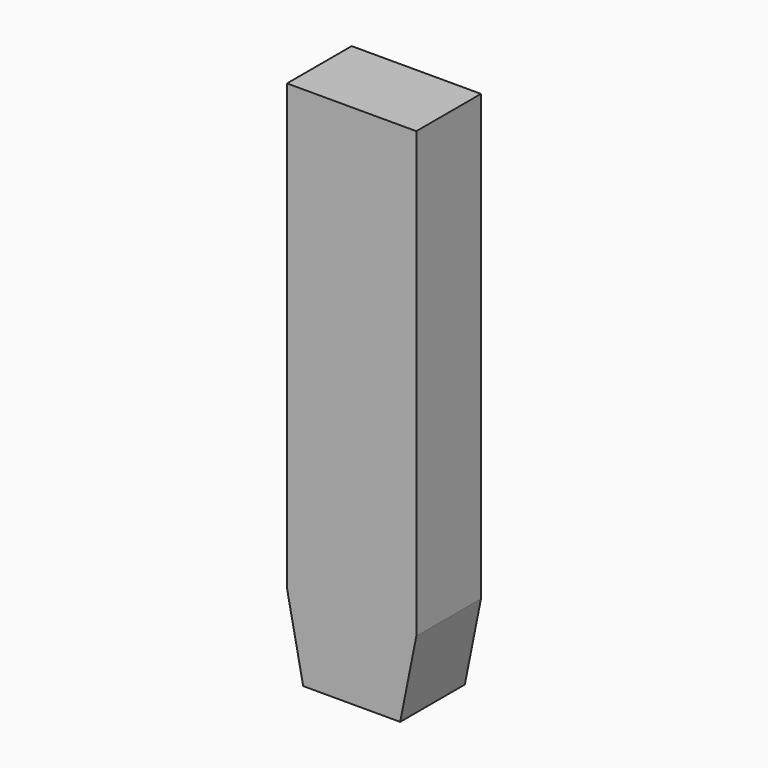
from build123d import *

# Parameters (mm, degrees)
BOX010_W           = 0.8
BOX010_H           = 0.5
BOX010_DEPTH       = 3.25
CHAMFER001_1_SIZE2 = 0.1
CHAMFER001_1_SIZE  = 0.5
CHAMFER001_2_SIZE2 = 0.1
CHAMFER001_2_SIZE  = 0.5


with BuildPart() as part:
    # Box010 → Box010 (new body)
    with BuildSketch(Plane(origin=(5.9, 2.6, -2.9), x_dir=(1, 0, 0), z_dir=(0, 0, 1))):
        with Locations((0.4, 0.25)):
            Rectangle(BOX010_W, BOX010_H)
    extrude(amount=BOX010_DEPTH)

    # Chamfer001 1
    chamfer001_1_edges = [part.edges().sort_by_distance(p)[0] for p in [
        (6.7, 2.85, -2.9),
    ]]
    chamfer001_1_side = part.faces().sort_by_distance((6.7, 2.85, -1.275))[0]
    chamfer(chamfer001_1_edges, length=CHAMFER001_1_SIZE, length2=CHAMFER001_1_SIZE2, reference=chamfer001_1_side)

    # Chamfer001 2
    chamfer001_2_edges = [part.edges().sort_by_distance(p)[0] for p in [
        (5.9, 2.85, -2.9),
    ]]
    chamfer001_2_side = part.faces().sort_by_distance((5.9, 2.85, -1.275))[0]
    chamfer(chamfer001_2_edges, length=CHAMFER001_2_SIZE, length2=CHAMFER001_2_SIZE2, reference=chamfer001_2_side)


solid = part.part
